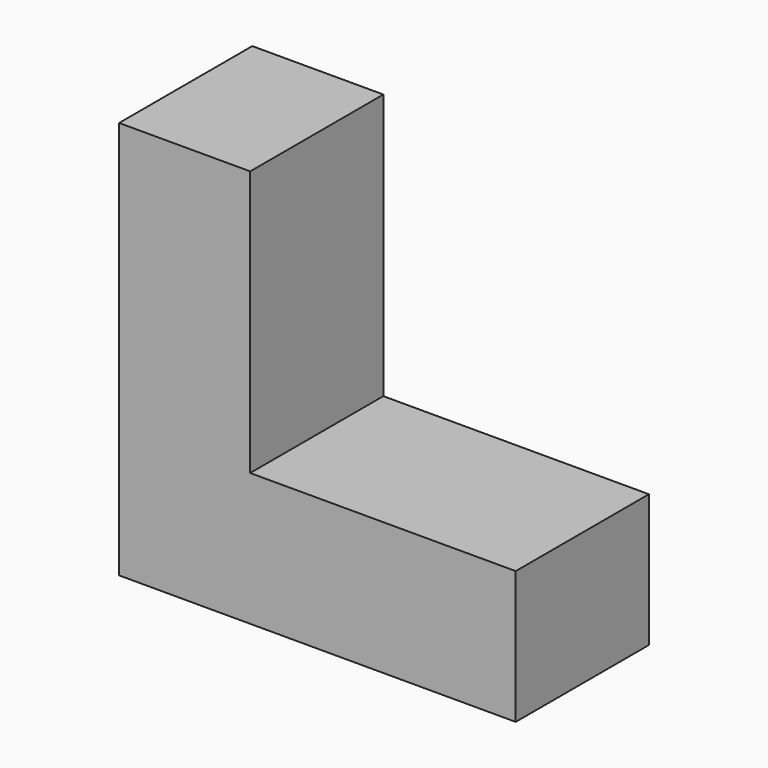
from build123d import *

# Parameters (mm, degrees)
F0_W     = 20
F0_H     = 20.25974
F0_W_2   = 20.519483
F1_DEPTH = 25.4


with BuildPart() as f1:
    # F0 (on Front) → F1 (new body)
    with BuildSketch(Plane.XZ):
        with Locations((10, 10.12987)):
            Rectangle(F0_W, F0_H)
        with Locations((10, 30.38961)):
            Rectangle(F0_W, F0_H)
        with Locations((30, 10.12987)):
            Rectangle(F0_W, F0_H)
        with Locations((10, 50.64935)):
            Rectangle(F0_W, F0_H)
        with Locations((50.259741, 10.12987)):
            Rectangle(F0_W_2, F0_H)
    extrude(amount=F1_DEPTH)


solid = f1.part
